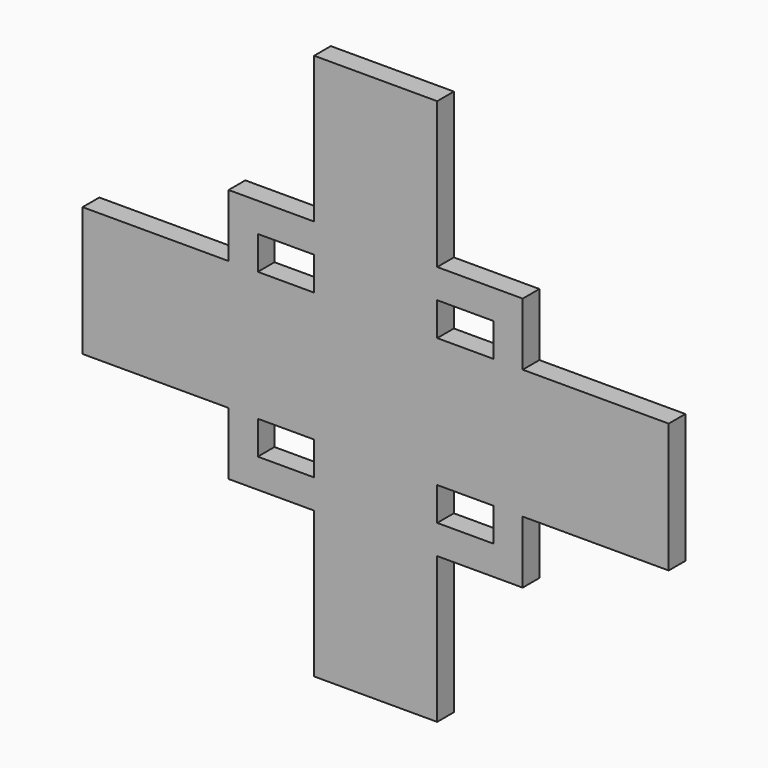
from build123d import *

# Parameters (mm, degrees)
F0_W     = 35
F0_H     = 31
F0_W_2   = 13.5
F0_H_2   = 8
F0_W_3   = 29.5
F0_H_3   = 35
F1_DEPTH = 5


with BuildPart() as f1:
    # F0 (on Front) → F1 (new body)
    with BuildSketch(Plane.XZ):
        with Locations((-52.75, 0)):
            Rectangle(F0_W, F0_H)
        Polygon((-14.75, 30.5), (-35.25, 30.5), (-35.25, 15.5), (-35.25, -15.5), (-35.25, -30.5), (-14.75, -30.5), (14.75, -30.5), (35.25, -30.5), (35.25, -15.5), (35.25, 15.5), (35.25, 30.5), (14.75, 30.5), align=None)
        with Locations((-21.5, -19.5)):
            Rectangle(F0_W_2, F0_H_2, mode=Mode.SUBTRACT)
        with Locations((21.5, -19.5)):
            Rectangle(F0_W_2, F0_H_2, mode=Mode.SUBTRACT)
        with Locations((-21.5, 19.5)):
            Rectangle(F0_W_2, F0_H_2, mode=Mode.SUBTRACT)
        with Locations((21.5, 19.5)):
            Rectangle(F0_W_2, F0_H_2, mode=Mode.SUBTRACT)
        with Locations((0, 48)):
            Rectangle(F0_W_3, F0_H_3)
        with Locations((0, -48)):
            Rectangle(F0_W_3, F0_H_3)
        with Locations((52.75, 0)):
            Rectangle(F0_W, F0_H)
    extrude(amount=F1_DEPTH)


solid = f1.part
